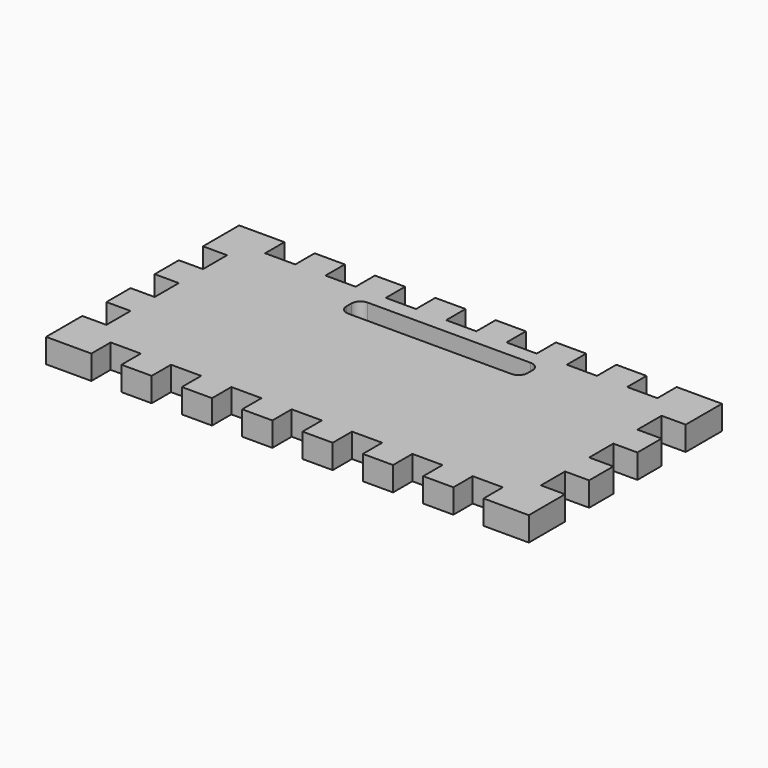
from build123d import *

# Parameters (mm, degrees)
F1_DEPTH = 10.16


with BuildPart() as f1:
    # F0 (on Top) → F1 (new body)
    with BuildSketch(Plane.XY):
        Polygon((19.05, 0), (0, 0), (0, -19.05), (10.16, -19.05), (10.16, -31.75), (0, -31.75), (0, -44.45), (10.16, -44.45), (10.16, -57.15), (0, -57.15), (0, -69.85), (10.16, -69.85), (10.16, -82.55), (0, -82.55), (0, -101.6), (19.05, -101.6), (19.05, -91.44), (31.75, -91.44), (31.75, -101.6), (44.45, -101.6), (44.45, -91.44), (57.15, -91.44), (57.15, -101.6), (69.85, -101.6), (69.85, -91.44), (82.55, -91.44), (82.55, -101.6), (95.25, -101.6), (95.25, -91.44), (107.95, -91.44), (107.95, -101.6), (120.65, -101.6), (120.65, -91.44), (133.35, -91.44), (133.35, -101.6), (146.05, -101.6), (146.05, -91.44), (158.75, -91.44), (158.75, -101.6), (171.45, -101.6), (171.45, -91.44), (184.15, -91.44), (184.15, -101.6), (203.2, -101.6), (203.2, -82.55), (193.04, -82.55), (193.04, -69.85), (203.2, -69.85), (203.2, -57.15), (193.04, -57.15), (193.04, -44.45), (203.2, -44.45), (203.2, -31.75), (193.04, -31.75), (193.04, -19.05), (203.2, -19.05), (203.2, 0), (184.15, 0), (184.15, -10.16), (171.45, -10.16), (171.45, 0), (158.75, 0), (158.75, -10.16), (146.05, -10.16), (146.05, 0), (133.35, 0), (133.35, -10.16), (120.65, -10.16), (120.65, 0), (107.95, 0), (107.95, -10.16), (95.25, -10.16), (95.25, 0), (82.55, 0), (82.55, -10.16), (69.85, -10.16), (69.85, 0), (57.15, 0), (57.15, -10.16), (44.45, -10.16), (44.45, 0), (31.75, 0), (31.75, -10.16), (19.05, -10.16), align=None)
        with BuildLine():
            ThreePointArc((63.5, -20.32), (64.615923, -17.625923), (67.31, -16.51))
            Line((67.31, -16.51), (135.89, -16.51))
            ThreePointArc((135.89, -16.51), (138.584077, -17.625923), (139.7, -20.32))
            Line((139.7, -20.32), (139.7, -22.86))
            ThreePointArc((139.7, -22.86), (138.584077, -25.554077), (135.89, -26.67))
            Line((135.89, -26.67), (67.31, -26.67))
            ThreePointArc((67.31, -26.67), (64.615923, -25.554077), (63.5, -22.86))
            Line((63.5, -22.86), (63.5, -20.32))
        make_face(mode=Mode.SUBTRACT)
    extrude(amount=F1_DEPTH)


solid = f1.part
